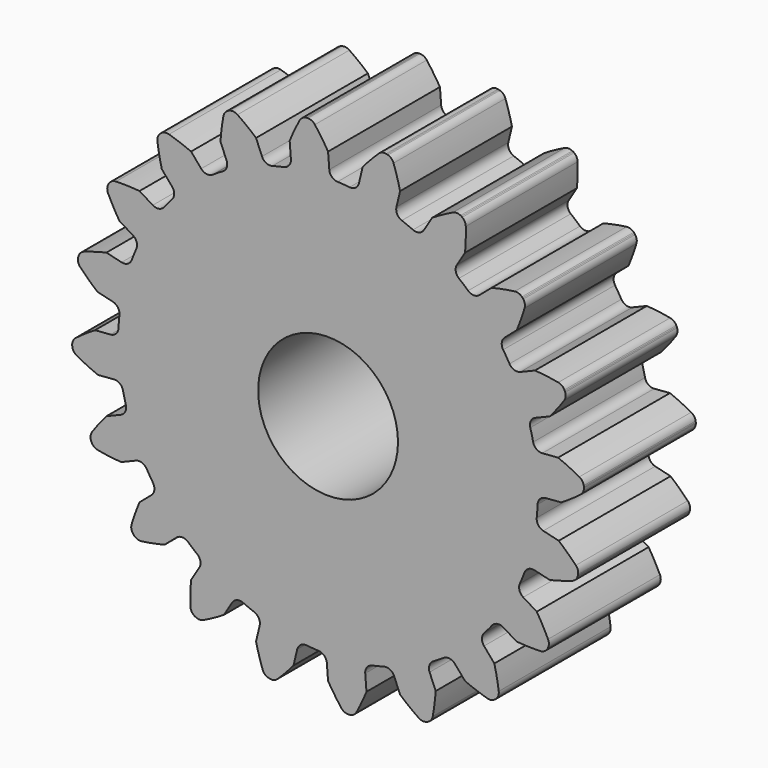
from build123d import *

# Parameters (mm, degrees)
F1_DEPTH = 12.7
F2_R     = 6.35
F3_DEPTH = 12.701


with BuildPart() as f1:
    # F0 (on Front) → F1 (new body)
    with BuildSketch(Plane.XZ):
        with BuildLine():
            ThreePointArc((-3.375022, 19.45809), (-3.528656, 18.925769), (-3.994873, 18.626419))
            ThreePointArc((-3.994873, 18.626419), (-4.530523, 18.503428), (-5.062403, 18.365037))
            ThreePointArc((-5.062403, 18.365037), (-7.369319, 17.56689), (-9.55523, 16.480293))
            ThreePointArc((-9.55523, 16.480293), (-10.026658, 16.197797), (-10.48974, 15.90182))
            ThreePointArc((-10.48974, 15.90182), (-12.437107, 14.429861), (-14.180255, 12.720962))
            ThreePointArc((-14.180255, 12.720962), (-14.541313, 12.306613), (-14.890268, 11.882021))
            ThreePointArc((-14.890268, 11.882021), (-16.287463, 9.880336), (-17.417217, 7.716414))
            ThreePointArc((-17.417217, 7.716414), (-17.632563, 7.210772), (-17.833233, 6.699128))
            ThreePointArc((-17.833233, 6.699128), (-18.54349, 4.363655), (-18.949261, 1.95653))
            ThreePointArc((-18.949261, 1.95653), (-18.997815, 1.40909), (-19.030556, 0.860477))
            ThreePointArc((-19.030556, 0.860477), (-18.98435, -1.580171), (-18.626419, -3.994873))
            ThreePointArc((-18.626419, -3.994873), (-18.503428, -4.530523), (-18.365037, -5.062403))
            ThreePointArc((-18.365037, -5.062403), (-17.56689, -7.369319), (-16.480293, -9.55523))
            ThreePointArc((-16.480293, -9.55523), (-16.197797, -10.026658), (-15.90182, -10.48974))
            ThreePointArc((-15.90182, -10.48974), (-14.429861, -12.437107), (-12.720962, -14.180255))
            ThreePointArc((-12.720962, -14.180255), (-12.306613, -14.541313), (-11.882021, -14.890268))
            ThreePointArc((-11.882021, -14.890268), (-9.880336, -16.287463), (-7.716414, -17.417217))
            ThreePointArc((-7.716414, -17.417217), (-7.210772, -17.632563), (-6.699128, -17.833233))
            ThreePointArc((-6.699128, -17.833233), (-4.363655, -18.54349), (-1.95653, -18.949261))
            ThreePointArc((-1.95653, -18.949261), (-1.40909, -18.997815), (-0.860477, -19.030556))
            ThreePointArc((-0.860477, -19.030556), (1.580171, -18.98435), (3.994873, -18.626419))
            ThreePointArc((3.994873, -18.626419), (4.530523, -18.503428), (5.062403, -18.365037))
            ThreePointArc((5.062403, -18.365037), (7.369319, -17.56689), (9.55523, -16.480293))
            ThreePointArc((9.55523, -16.480293), (10.026658, -16.197797), (10.48974, -15.90182))
            ThreePointArc((10.48974, -15.90182), (12.437107, -14.429861), (14.180255, -12.720962))
            ThreePointArc((14.180255, -12.720962), (14.541313, -12.306613), (14.890268, -11.882021))
            ThreePointArc((14.890268, -11.882021), (16.287463, -9.880336), (17.417217, -7.716414))
            ThreePointArc((17.417217, -7.716414), (17.632563, -7.210772), (17.833233, -6.699128))
            ThreePointArc((17.833233, -6.699128), (18.54349, -4.363655), (18.949261, -1.95653))
            ThreePointArc((18.949261, -1.95653), (18.997815, -1.40909), (19.030556, -0.860477))
            ThreePointArc((19.030556, -0.860477), (19.251169, -0.348631), (19.755374, -0.111071))
            Line((19.755374, -0.111071), (21.166667, 0))
            ThreePointArc((21.166667, 0), (22.064983, 0.574506), (22.929747, 1.198375))
            ThreePointArc((22.929747, 1.198375), (23.157301, 1.474997), (23.238772, 1.8238))
            Line((23.238772, 1.8238), (23.238772, 1.917823))
            Line((23.238772, 1.917823), (23.224063, 2.010689))
            ThreePointArc((23.224063, 2.010689), (23.089031, 2.342452), (22.821005, 2.580071))
            ThreePointArc((22.821005, 2.580071), (21.869293, 3.060981), (20.892164, 3.487886))
            Line((20.892164, 3.487886), (19.45809, 3.375022))
            ThreePointArc((19.45809, 3.375022), (18.925769, 3.528656), (18.626419, 3.994873))
            ThreePointArc((18.626419, 3.994873), (18.503428, 4.530523), (18.365037, 5.062403))
            ThreePointArc((18.365037, 5.062403), (18.416683, 5.617371), (18.8228, 5.999111))
            Line((18.8228, 5.999111), (20.130696, 6.54086))
            ThreePointArc((20.130696, 6.54086), (20.807514, 7.364842), (21.437167, 8.225404))
            ThreePointArc((21.437167, 8.225404), (21.568103, 8.558805), (21.5378, 8.915712))
            Line((21.5378, 8.915712), (21.508745, 9.005134))
            Line((21.508745, 9.005134), (21.46606, 9.088909))
            ThreePointArc((21.46606, 9.088909), (21.235116, 9.362707), (20.90678, 9.505872))
            ThreePointArc((20.90678, 9.505872), (19.853039, 9.669149), (18.791813, 9.773211))
            Line((18.791813, 9.773211), (17.462804, 9.222717))
            ThreePointArc((17.462804, 9.222717), (16.909061, 9.204335), (16.480293, 9.55523))
            ThreePointArc((16.480293, 9.55523), (16.197797, 10.026658), (15.90182, 10.48974))
            ThreePointArc((15.90182, 10.48974), (15.779443, 11.033505), (16.047719, 11.522059))
            Line((16.047719, 11.522059), (17.124193, 12.441455))
            ThreePointArc((17.124193, 12.441455), (17.51326, 13.434257), (17.846168, 14.447273))
            ThreePointArc((17.846168, 14.447273), (17.867668, 14.804818), (17.728559, 15.134892))
            Line((17.728559, 15.134892), (17.673293, 15.210959))
            Line((17.673293, 15.210959), (17.606809, 15.277444))
            ThreePointArc((17.606809, 15.277444), (17.302559, 15.466475), (16.946053, 15.501172))
            ThreePointArc((16.946053, 15.501172), (15.89343, 15.330834), (14.851988, 15.101865))
            Line((14.851988, 15.101865), (13.758137, 14.167628))
            ThreePointArc((13.758137, 14.167628), (13.237177, 13.97903), (12.720962, 14.180255))
            ThreePointArc((12.720962, 14.180255), (12.306613, 14.541313), (11.882021, 14.890268))
            ThreePointArc((11.882021, 14.890268), (11.597601, 15.369603), (11.701776, 15.917147))
            Line((11.701776, 15.917147), (12.441455, 17.124193))
            ThreePointArc((12.441455, 17.124193), (12.504687, 18.188632), (12.508261, 19.254942))
            ThreePointArc((12.508261, 19.254942), (12.418222, 19.601632), (12.183922, 19.872564))
            Line((12.183922, 19.872564), (12.107856, 19.92783))
            Line((12.107856, 19.92783), (12.02408, 19.970515))
            ThreePointArc((12.02408, 19.970515), (11.676308, 20.056277), (11.326529, 19.979109))
            ThreePointArc((11.326529, 19.979109), (10.378063, 19.491829), (9.458347, 18.952244))
            Line((9.458347, 18.952244), (8.706728, 17.725713))
            ThreePointArc((8.706728, 17.725713), (8.269545, 17.38536), (7.716414, 17.417217))
            ThreePointArc((7.716414, 17.417217), (7.210772, 17.632563), (6.699128, 17.833233))
            ThreePointArc((6.699128, 17.833233), (6.280506, 18.201217), (6.210381, 18.754154))
            Line((6.210381, 18.754154), (6.54086, 20.130696))
            ThreePointArc((6.54086, 20.130696), (6.272067, 21.162578), (5.945959, 22.177804))
            ThreePointArc((5.945959, 22.177804), (5.753194, 22.479701), (5.446639, 22.664971))
            Line((5.446639, 22.664971), (5.357217, 22.694025))
            Line((5.357217, 22.694025), (5.264351, 22.708734))
            ThreePointArc((5.264351, 22.708734), (4.907099, 22.682831), (4.598285, 22.501352))
            ThreePointArc((4.598285, 22.501352), (3.846817, 21.744829), (3.138857, 20.947445))
            Line((3.138857, 20.947445), (2.803044, 19.548682))
            ThreePointArc((2.803044, 19.548682), (2.492433, 19.08989), (1.95653, 18.949261))
            ThreePointArc((1.95653, 18.949261), (1.40909, 18.997815), (0.860477, 19.030556))
            ThreePointArc((0.860477, 19.030556), (0.348631, 19.251169), (0.111071, 19.755374))
            Line((0.111071, 19.755374), (0, 21.166667))
            ThreePointArc((0, 21.166667), (-0.574506, 22.064983), (-1.198375, 22.929747))
            ThreePointArc((-1.198375, 22.929747), (-1.474997, 23.157301), (-1.8238, 23.238772))
            Line((-1.8238, 23.238772), (-1.917823, 23.238772))
            Line((-1.917823, 23.238772), (-2.010689, 23.224063))
            ThreePointArc((-2.010689, 23.224063), (-2.342452, 23.089031), (-2.580071, 22.821005))
            ThreePointArc((-2.580071, 22.821005), (-3.060981, 21.869293), (-3.487886, 20.892164))
            Line((-3.487886, 20.892164), (-3.375022, 19.45809))
        make_face()
        with BuildLine():
            ThreePointArc((-9.55523, 16.480293), (-7.369319, 17.56689), (-5.062403, 18.365037))
            ThreePointArc((-5.062403, 18.365037), (-5.617371, 18.416683), (-5.999111, 18.8228))
            Line((-5.999111, 18.8228), (-6.54086, 20.130696))
            ThreePointArc((-6.54086, 20.130696), (-7.364842, 20.807514), (-8.225404, 21.437167))
            ThreePointArc((-8.225404, 21.437167), (-8.558805, 21.568103), (-8.915712, 21.5378))
            Line((-8.915712, 21.5378), (-9.005134, 21.508745))
            Line((-9.005134, 21.508745), (-9.088909, 21.46606))
            ThreePointArc((-9.088909, 21.46606), (-9.362707, 21.235116), (-9.505872, 20.90678))
            ThreePointArc((-9.505872, 20.90678), (-9.669149, 19.853039), (-9.773211, 18.791813))
            Line((-9.773211, 18.791813), (-9.222717, 17.462804))
            ThreePointArc((-9.222717, 17.462804), (-9.204335, 16.909061), (-9.55523, 16.480293))
        make_face()
        with BuildLine():
            ThreePointArc((-14.180255, 12.720962), (-12.437107, 14.429861), (-10.48974, 15.90182))
            ThreePointArc((-10.48974, 15.90182), (-11.033505, 15.779443), (-11.522059, 16.047719))
            Line((-11.522059, 16.047719), (-12.441455, 17.124193))
            ThreePointArc((-12.441455, 17.124193), (-13.434257, 17.51326), (-14.447273, 17.846168))
            ThreePointArc((-14.447273, 17.846168), (-14.804818, 17.867668), (-15.134892, 17.728559))
            Line((-15.134892, 17.728559), (-15.210959, 17.673293))
            Line((-15.210959, 17.673293), (-15.277444, 17.606809))
            ThreePointArc((-15.277444, 17.606809), (-15.466475, 17.302559), (-15.501172, 16.946053))
            ThreePointArc((-15.501172, 16.946053), (-15.330834, 15.89343), (-15.101865, 14.851988))
            Line((-15.101865, 14.851988), (-14.167628, 13.758137))
            ThreePointArc((-14.167628, 13.758137), (-13.97903, 13.237177), (-14.180255, 12.720962))
        make_face()
        with BuildLine():
            ThreePointArc((-17.417217, 7.716414), (-16.287463, 9.880336), (-14.890268, 11.882021))
            ThreePointArc((-14.890268, 11.882021), (-15.369603, 11.597601), (-15.917147, 11.701776))
            Line((-15.917147, 11.701776), (-17.124193, 12.441455))
            ThreePointArc((-17.124193, 12.441455), (-18.188632, 12.504687), (-19.254942, 12.508261))
            ThreePointArc((-19.254942, 12.508261), (-19.601632, 12.418222), (-19.872564, 12.183922))
            Line((-19.872564, 12.183922), (-19.92783, 12.107856))
            Line((-19.92783, 12.107856), (-19.970515, 12.02408))
            ThreePointArc((-19.970515, 12.02408), (-20.056277, 11.676308), (-19.979109, 11.326529))
            ThreePointArc((-19.979109, 11.326529), (-19.491829, 10.378063), (-18.952244, 9.458347))
            Line((-18.952244, 9.458347), (-17.725713, 8.706728))
            ThreePointArc((-17.725713, 8.706728), (-17.38536, 8.269545), (-17.417217, 7.716414))
        make_face()
        with BuildLine():
            ThreePointArc((-18.949261, 1.95653), (-18.54349, 4.363655), (-17.833233, 6.699128))
            ThreePointArc((-17.833233, 6.699128), (-18.201217, 6.280506), (-18.754154, 6.210381))
            Line((-18.754154, 6.210381), (-20.130696, 6.54086))
            ThreePointArc((-20.130696, 6.54086), (-21.162578, 6.272067), (-22.177804, 5.945959))
            ThreePointArc((-22.177804, 5.945959), (-22.479701, 5.753194), (-22.664971, 5.446639))
            Line((-22.664971, 5.446639), (-22.694025, 5.357217))
            Line((-22.694025, 5.357217), (-22.708734, 5.264351))
            ThreePointArc((-22.708734, 5.264351), (-22.682831, 4.907099), (-22.501352, 4.598285))
            ThreePointArc((-22.501352, 4.598285), (-21.744829, 3.846817), (-20.947445, 3.138857))
            Line((-20.947445, 3.138857), (-19.548682, 2.803044))
            ThreePointArc((-19.548682, 2.803044), (-19.08989, 2.492433), (-18.949261, 1.95653))
        make_face()
        with BuildLine():
            ThreePointArc((-18.626419, -3.994873), (-18.98435, -1.580171), (-19.030556, 0.860477))
            ThreePointArc((-19.030556, 0.860477), (-19.251169, 0.348631), (-19.755374, 0.111071))
            Line((-19.755374, 0.111071), (-21.166667, 0))
            ThreePointArc((-21.166667, 0), (-22.064983, -0.574506), (-22.929747, -1.198375))
            ThreePointArc((-22.929747, -1.198375), (-23.157301, -1.474997), (-23.238772, -1.8238))
            Line((-23.238772, -1.8238), (-23.238772, -1.917823))
            Line((-23.238772, -1.917823), (-23.224063, -2.010689))
            ThreePointArc((-23.224063, -2.010689), (-23.089031, -2.342452), (-22.821005, -2.580071))
            ThreePointArc((-22.821005, -2.580071), (-21.869293, -3.060981), (-20.892164, -3.487886))
            Line((-20.892164, -3.487886), (-19.45809, -3.375022))
            ThreePointArc((-19.45809, -3.375022), (-18.925769, -3.528656), (-18.626419, -3.994873))
        make_face()
        with BuildLine():
            ThreePointArc((-16.480293, -9.55523), (-17.56689, -7.369319), (-18.365037, -5.062403))
            ThreePointArc((-18.365037, -5.062403), (-18.416683, -5.617371), (-18.8228, -5.999111))
            Line((-18.8228, -5.999111), (-20.130696, -6.54086))
            ThreePointArc((-20.130696, -6.54086), (-20.807514, -7.364842), (-21.437167, -8.225404))
            ThreePointArc((-21.437167, -8.225404), (-21.568103, -8.558805), (-21.5378, -8.915712))
            Line((-21.5378, -8.915712), (-21.508745, -9.005134))
            Line((-21.508745, -9.005134), (-21.46606, -9.088909))
            ThreePointArc((-21.46606, -9.088909), (-21.235116, -9.362707), (-20.90678, -9.505872))
            ThreePointArc((-20.90678, -9.505872), (-19.853039, -9.669149), (-18.791813, -9.773211))
            Line((-18.791813, -9.773211), (-17.462804, -9.222717))
            ThreePointArc((-17.462804, -9.222717), (-16.909061, -9.204335), (-16.480293, -9.55523))
        make_face()
        with BuildLine():
            ThreePointArc((-12.720962, -14.180255), (-14.429861, -12.437107), (-15.90182, -10.48974))
            ThreePointArc((-15.90182, -10.48974), (-15.779443, -11.033505), (-16.047719, -11.522059))
            Line((-16.047719, -11.522059), (-17.124193, -12.441455))
            ThreePointArc((-17.124193, -12.441455), (-17.51326, -13.434257), (-17.846168, -14.447273))
            ThreePointArc((-17.846168, -14.447273), (-17.867668, -14.804818), (-17.728559, -15.134892))
            Line((-17.728559, -15.134892), (-17.673293, -15.210959))
            Line((-17.673293, -15.210959), (-17.606809, -15.277444))
            ThreePointArc((-17.606809, -15.277444), (-17.302559, -15.466475), (-16.946053, -15.501172))
            ThreePointArc((-16.946053, -15.501172), (-15.89343, -15.330834), (-14.851988, -15.101865))
            Line((-14.851988, -15.101865), (-13.758137, -14.167628))
            ThreePointArc((-13.758137, -14.167628), (-13.237177, -13.97903), (-12.720962, -14.180255))
        make_face()
        with BuildLine():
            ThreePointArc((-7.716414, -17.417217), (-9.880336, -16.287463), (-11.882021, -14.890268))
            ThreePointArc((-11.882021, -14.890268), (-11.597601, -15.369603), (-11.701776, -15.917147))
            Line((-11.701776, -15.917147), (-12.441455, -17.124193))
            ThreePointArc((-12.441455, -17.124193), (-12.504687, -18.188632), (-12.508261, -19.254942))
            ThreePointArc((-12.508261, -19.254942), (-12.418222, -19.601632), (-12.183922, -19.872564))
            Line((-12.183922, -19.872564), (-12.107856, -19.92783))
            Line((-12.107856, -19.92783), (-12.02408, -19.970515))
            ThreePointArc((-12.02408, -19.970515), (-11.676308, -20.056277), (-11.326529, -19.979109))
            ThreePointArc((-11.326529, -19.979109), (-10.378063, -19.491829), (-9.458347, -18.952244))
            Line((-9.458347, -18.952244), (-8.706728, -17.725713))
            ThreePointArc((-8.706728, -17.725713), (-8.269545, -17.38536), (-7.716414, -17.417217))
        make_face()
        with BuildLine():
            ThreePointArc((-1.95653, -18.949261), (-4.363655, -18.54349), (-6.699128, -17.833233))
            ThreePointArc((-6.699128, -17.833233), (-6.280506, -18.201217), (-6.210381, -18.754154))
            Line((-6.210381, -18.754154), (-6.54086, -20.130696))
            ThreePointArc((-6.54086, -20.130696), (-6.272067, -21.162578), (-5.945959, -22.177804))
            ThreePointArc((-5.945959, -22.177804), (-5.753194, -22.479701), (-5.446639, -22.664971))
            Line((-5.446639, -22.664971), (-5.357217, -22.694025))
            Line((-5.357217, -22.694025), (-5.264351, -22.708734))
            ThreePointArc((-5.264351, -22.708734), (-4.907099, -22.682831), (-4.598285, -22.501352))
            ThreePointArc((-4.598285, -22.501352), (-3.846817, -21.744829), (-3.138857, -20.947445))
            Line((-3.138857, -20.947445), (-2.803044, -19.548682))
            ThreePointArc((-2.803044, -19.548682), (-2.492433, -19.08989), (-1.95653, -18.949261))
        make_face()
        with BuildLine():
            ThreePointArc((3.994873, -18.626419), (1.580171, -18.98435), (-0.860477, -19.030556))
            ThreePointArc((-0.860477, -19.030556), (-0.348631, -19.251169), (-0.111071, -19.755374))
            Line((-0.111071, -19.755374), (0, -21.166667))
            ThreePointArc((0, -21.166667), (0.574506, -22.064983), (1.198375, -22.929747))
            ThreePointArc((1.198375, -22.929747), (1.474997, -23.157301), (1.8238, -23.238772))
            Line((1.8238, -23.238772), (1.917823, -23.238772))
            Line((1.917823, -23.238772), (2.010689, -23.224063))
            ThreePointArc((2.010689, -23.224063), (2.342452, -23.089031), (2.580071, -22.821005))
            ThreePointArc((2.580071, -22.821005), (3.060981, -21.869293), (3.487886, -20.892164))
            Line((3.487886, -20.892164), (3.375022, -19.45809))
            ThreePointArc((3.375022, -19.45809), (3.528656, -18.925769), (3.994873, -18.626419))
        make_face()
        with BuildLine():
            ThreePointArc((9.55523, -16.480293), (7.369319, -17.56689), (5.062403, -18.365037))
            ThreePointArc((5.062403, -18.365037), (5.617371, -18.416683), (5.999111, -18.8228))
            Line((5.999111, -18.8228), (6.54086, -20.130696))
            ThreePointArc((6.54086, -20.130696), (7.364842, -20.807514), (8.225404, -21.437167))
            ThreePointArc((8.225404, -21.437167), (8.558805, -21.568103), (8.915712, -21.5378))
            Line((8.915712, -21.5378), (9.005134, -21.508745))
            Line((9.005134, -21.508745), (9.088909, -21.46606))
            ThreePointArc((9.088909, -21.46606), (9.362707, -21.235116), (9.505872, -20.90678))
            ThreePointArc((9.505872, -20.90678), (9.669149, -19.853039), (9.773211, -18.791813))
            Line((9.773211, -18.791813), (9.222717, -17.462804))
            ThreePointArc((9.222717, -17.462804), (9.204335, -16.909061), (9.55523, -16.480293))
        make_face()
        with BuildLine():
            ThreePointArc((14.180255, -12.720962), (12.437107, -14.429861), (10.48974, -15.90182))
            ThreePointArc((10.48974, -15.90182), (11.033505, -15.779443), (11.522059, -16.047719))
            Line((11.522059, -16.047719), (12.441455, -17.124193))
            ThreePointArc((12.441455, -17.124193), (13.434257, -17.51326), (14.447273, -17.846168))
            ThreePointArc((14.447273, -17.846168), (14.804818, -17.867668), (15.134892, -17.728559))
            Line((15.134892, -17.728559), (15.210959, -17.673293))
            Line((15.210959, -17.673293), (15.277444, -17.606809))
            ThreePointArc((15.277444, -17.606809), (15.466475, -17.302559), (15.501172, -16.946053))
            ThreePointArc((15.501172, -16.946053), (15.330834, -15.89343), (15.101865, -14.851988))
            Line((15.101865, -14.851988), (14.167628, -13.758137))
            ThreePointArc((14.167628, -13.758137), (13.97903, -13.237177), (14.180255, -12.720962))
        make_face()
        with BuildLine():
            ThreePointArc((17.417217, -7.716414), (16.287463, -9.880336), (14.890268, -11.882021))
            ThreePointArc((14.890268, -11.882021), (15.369603, -11.597601), (15.917147, -11.701776))
            Line((15.917147, -11.701776), (17.124193, -12.441455))
            ThreePointArc((17.124193, -12.441455), (18.188632, -12.504687), (19.254942, -12.508261))
            ThreePointArc((19.254942, -12.508261), (19.601632, -12.418222), (19.872564, -12.183922))
            Line((19.872564, -12.183922), (19.92783, -12.107856))
            Line((19.92783, -12.107856), (19.970515, -12.02408))
            ThreePointArc((19.970515, -12.02408), (20.056277, -11.676308), (19.979109, -11.326529))
            ThreePointArc((19.979109, -11.326529), (19.491829, -10.378063), (18.952244, -9.458347))
            Line((18.952244, -9.458347), (17.725713, -8.706728))
            ThreePointArc((17.725713, -8.706728), (17.38536, -8.269545), (17.417217, -7.716414))
        make_face()
        with BuildLine():
            ThreePointArc((18.949261, -1.95653), (18.54349, -4.363655), (17.833233, -6.699128))
            ThreePointArc((17.833233, -6.699128), (18.201217, -6.280506), (18.754154, -6.210381))
            Line((18.754154, -6.210381), (20.130696, -6.54086))
            ThreePointArc((20.130696, -6.54086), (21.162578, -6.272067), (22.177804, -5.945959))
            ThreePointArc((22.177804, -5.945959), (22.479701, -5.753194), (22.664971, -5.446639))
            Line((22.664971, -5.446639), (22.694025, -5.357217))
            Line((22.694025, -5.357217), (22.708734, -5.264351))
            ThreePointArc((22.708734, -5.264351), (22.682831, -4.907099), (22.501352, -4.598285))
            ThreePointArc((22.501352, -4.598285), (21.744829, -3.846817), (20.947445, -3.138857))
            Line((20.947445, -3.138857), (19.548682, -2.803044))
            ThreePointArc((19.548682, -2.803044), (19.08989, -2.492433), (18.949261, -1.95653))
        make_face()
    extrude(amount=F1_DEPTH)

    # F2 (on face) → F3 (cut, through all)
    with BuildSketch(Plane.XZ.offset(12.7)):
        Circle(F2_R)
    extrude(amount=-F3_DEPTH, mode=Mode.SUBTRACT)


solid = f1.part
